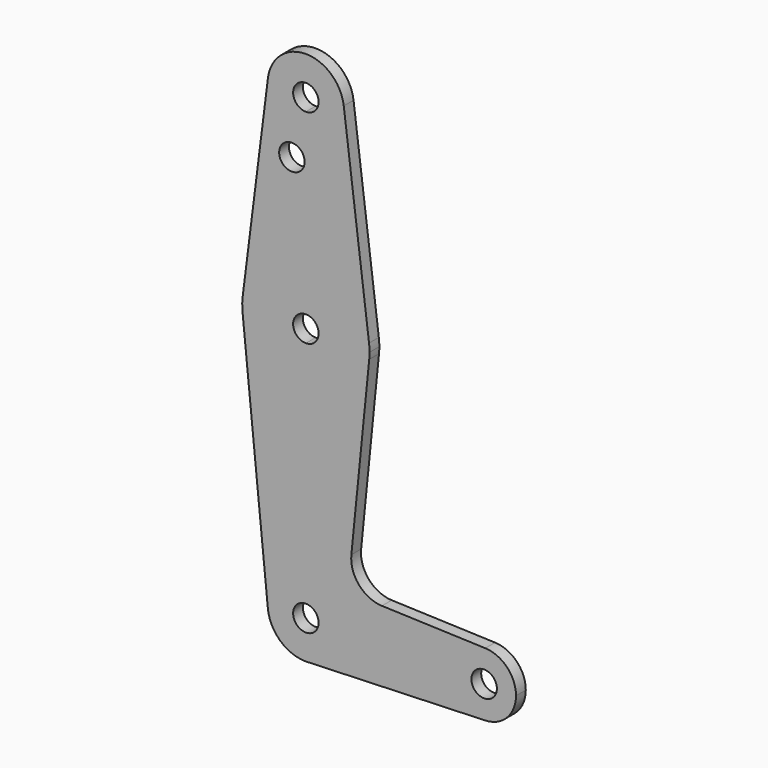
from build123d import *

# Parameters (mm, degrees)
F0_R     = 3.175
F1_DEPTH = 3.048


with BuildPart() as f1:
    # F0 (on Front) → F1 (new body)
    with BuildSketch(Plane.XZ):
        with BuildLine():
            ThreePointArc((-9.4502929642, 115.490625), (-7.14375, 107.9998046905), (0, 104.775))
            ThreePointArc((0, 104.775), (6.7351920908, 107.5648079092), (9.525, 114.3))
            ThreePointArc((9.525, 114.3), (9.5063048942, 114.896483242), (9.4502929642, 115.490625))
            ThreePointArc((9.4502929642, 115.490625), (0, 123.825), (-9.4502929642, 115.490625))
        make_face()
        with BuildLine():
            ThreePointArc((3.175, 114.3), (2.2450640303, 112.0549359697), (0, 111.125))
            ThreePointArc((0, 111.125), (-2.2450640303, 116.5450640303), (3.175, 114.3))
        make_face(mode=Mode.SUBTRACT)
        with BuildLine():
            ThreePointArc((9.525, 114.3), (6.7351920908, 107.5648079092), (0, 104.775))
            Line((0, 104.775), (0, 79.375))
            ThreePointArc((0, 79.375), (10.5003255158, 75.40625), (15.7504882737, 65.484375))
            Line((15.7504882737, 65.484375), (9.4502929642, 115.490625))
            ThreePointArc((9.4502929642, 115.490625), (9.5063048942, 114.896483242), (9.525, 114.3))
        make_face()
        with BuildLine():
            Line((0, 79.375), (0, 104.775))
            ThreePointArc((0, 104.775), (-7.14375, 107.9998046905), (-9.4502929642, 115.490625))
            Line((-9.4502929642, 115.490625), (-15.7504882737, 65.484375))
            ThreePointArc((-15.7504882737, 65.484375), (-10.5003255158, 75.40625), (0, 79.375))
        make_face()
        with Locations((-3.4896819852, 100.0252)):
            Circle(F0_R, mode=Mode.SUBTRACT)
        with BuildLine():
            ThreePointArc((15.7504882737, 65.484375), (10.5003255158, 75.40625), (0, 79.375))
            Line((0, 79.375), (0, 66.675))
            ThreePointArc((0, 66.675), (2.2450640303, 65.7450640303), (3.175, 63.5))
            ThreePointArc((3.175, 63.5), (2.2450640303, 61.2549359697), (0, 60.325))
            Line((0, 60.325), (0, 47.625))
            ThreePointArc((0, 47.625), (10.6492737428, 51.7267849017), (15.7954255641, 61.9125))
            ThreePointArc((15.7954255641, 61.9125), (15.8550939106, 62.7052534459), (15.875, 63.5))
            ThreePointArc((15.875, 63.5), (15.8438414904, 64.4941387366), (15.7504882737, 65.484375))
        make_face()
        with BuildLine():
            Line((0, 66.675), (0, 79.375))
            ThreePointArc((0, 79.375), (-10.5003255158, 75.40625), (-15.7504882737, 65.484375))
            ThreePointArc((-15.7504882737, 65.484375), (-15.8742283795, 63.3434804966), (-15.7082981004, 61.2054421362))
            ThreePointArc((-15.7082981004, 61.2054421362), (-10.3824255093, 51.490800795), (0, 47.625))
            Line((0, 47.625), (0, 60.325))
            ThreePointArc((0, 60.325), (-3.175, 63.5), (0, 66.675))
        make_face()
        with BuildLine():
            ThreePointArc((0, 47.625), (-10.3824255093, 51.490800795), (-15.7082981004, 61.2054421362))
            Line((-15.7082981004, 61.2054421362), (-9.4774987625, -0.9500748427))
            ThreePointArc((-9.4774987625, -0.9500748427), (-7.0631114913, 6.3904679846), (0, 9.525))
            Line((0, 9.525), (0, 47.625))
        make_face()
        with BuildLine():
            ThreePointArc((15.7954255641, 61.9125), (10.6492737428, 51.7267849017), (0, 47.625))
            Line((0, 47.625), (0, 9.525))
            ThreePointArc((0, 9.525), (6.7351920908, 6.7351920908), (9.525, 0))
            Line((9.525, 0), (36.5125, 0))
            ThreePointArc((36.5125, 0), (38.9380895153, 5.7116327839), (44.7324052746, 7.9324746146))
            Line((44.7324052746, 7.9324746146), (18.968327868, 8.8497055806))
            ThreePointArc((18.968327868, 8.8497055806), (13.2612039825, 11.5674628959), (11.3408358685, 17.5898921545))
            Line((11.3408358685, 17.5898921545), (15.7954255641, 61.9125))
        make_face()
        with BuildLine():
            ThreePointArc((0, 9.525), (-7.0631114913, 6.3904679846), (-9.4774987625, -0.9500748427))
            ThreePointArc((-9.4774987625, -0.9500748427), (-6.3904679846, -7.0631114913), (0, -9.525))
            Line((0, -9.525), (0.6773435479, -9.500885786))
            ThreePointArc((0.6773435479, -9.500885786), (6.9705567315, -6.4912990883), (9.525, 0))
            Line((9.525, 0), (3.175, 0))
            ThreePointArc((3.175, 0), (-2.2450640303, -2.2450640303), (0, 3.175))
            Line((0, 3.175), (0, 9.525))
        make_face()
        with BuildLine():
            Line((0.6773435479, -9.500885786), (0, -9.525))
            ThreePointArc((0, -9.525), (0.3388863295, -9.5189695375), (0.6773435479, -9.500885786))
        make_face()
        with BuildLine():
            Line((36.5125, 0), (9.525, 0))
            ThreePointArc((9.525, 0), (6.9705567315, -6.4912990883), (0.6773435479, -9.500885786))
            Line((0.6773435479, -9.500885786), (44.7324052746, -7.9324746146))
            ThreePointArc((44.7324052746, -7.9324746146), (38.9380895153, -5.7116327839), (36.5125, 0))
        make_face()
        with BuildLine():
            ThreePointArc((44.7324052746, 7.9324746146), (38.9380895153, 5.7116327839), (36.5125, 0))
            ThreePointArc((36.5125, 0), (38.9380895153, -5.7116327839), (44.7324052746, -7.9324746146))
            ThreePointArc((44.7324052746, -7.9324746146), (50.1616327839, -5.5119104847), (52.3875, 0))
            ThreePointArc((52.3875, 0), (50.1616327839, 5.5119104847), (44.7324052746, 7.9324746146))
        make_face()
        with BuildLine():
            ThreePointArc((47.625, 0), (44.45, -3.175), (41.275, 0))
            ThreePointArc((41.275, 0), (44.45, 3.175), (47.625, 0))
        make_face(mode=Mode.SUBTRACT)
        with BuildLine():
            ThreePointArc((9.525, 0), (6.7351920908, 6.7351920908), (0, 9.525))
            Line((0, 9.525), (0, 3.175))
            ThreePointArc((0, 3.175), (2.2450640303, 2.2450640303), (3.175, 0))
            Line((3.175, 0), (9.525, 0))
        make_face()
    extrude(amount=F1_DEPTH)


solid = f1.part
